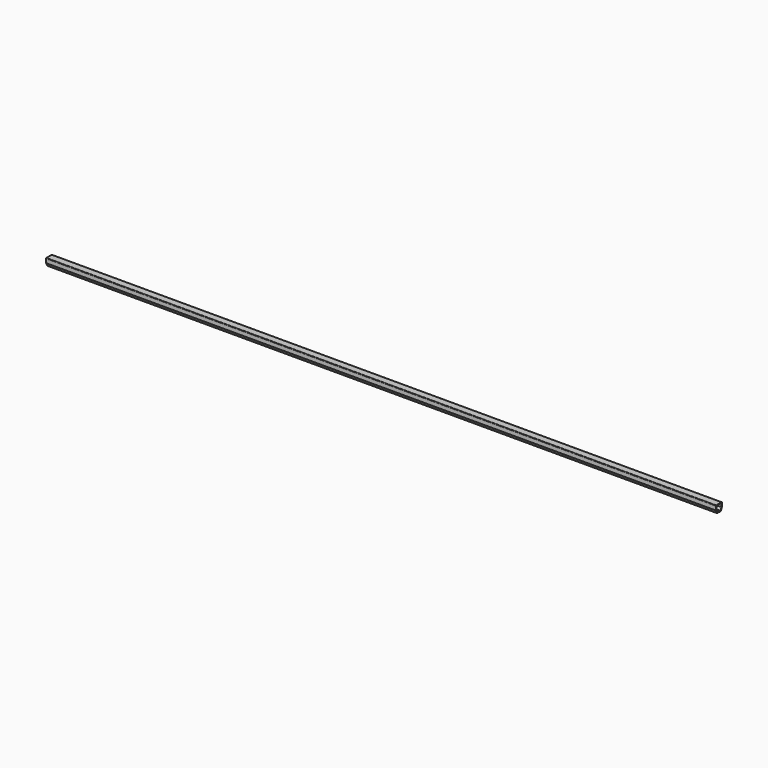
from build123d import *

# Parameters (mm, degrees)
F1_DEPTH = 6000
F2_R     = 5


with BuildPart() as f1:
    # F0 (on Right) → F1 (new body)
    with BuildSketch(Plane.YZ):
        Polygon((-45.335583, 114.643262), (-45.335583, 74.643262), (-30.953255, 47.458794), (-15.084686, 47.458794), (-15.084686, 52.458794), (-27.941923, 52.458794), (-40.335583, 75.884421), (-40.335583, 109.643262), (16.664417, 109.643262), (16.664417, 75.884421), (4.270756, 52.458794), (-8.586481, 52.458794), (-8.586481, 47.458794), (7.282088, 47.458794), (21.664417, 74.643262), (21.664417, 114.643262), align=None)
    extrude(amount=F1_DEPTH)

    # F2
    f2_edges = [f1.edges().sort_by_distance(p)[0] for p in [
        (3000, 21.664417, 114.643262),
        (3000, -45.335583, 114.643262),
    ]]
    fillet(f2_edges, radius=F2_R)


solid = f1.part
